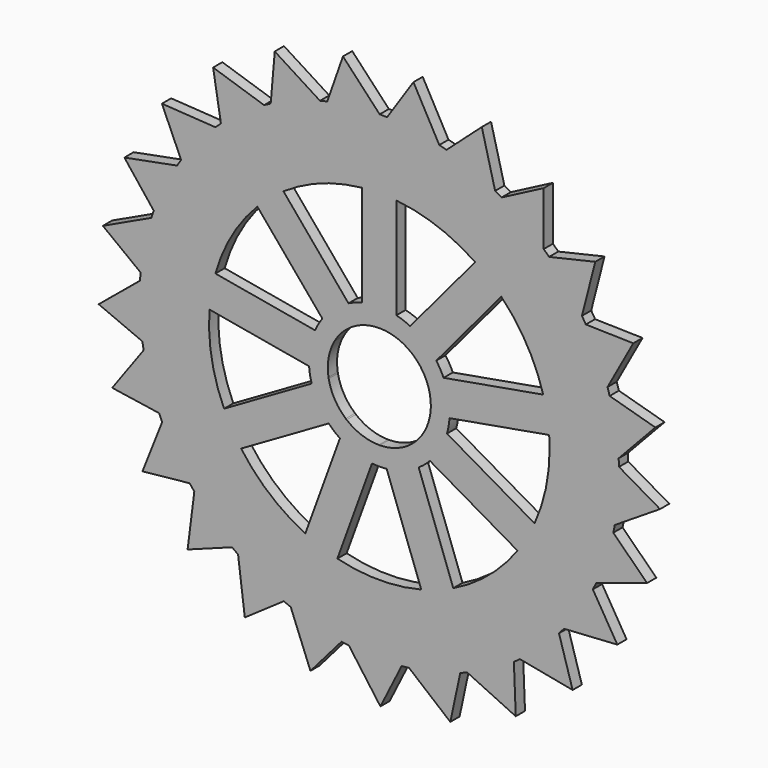
from build123d import *

# Parameters (mm, degrees)
F1_DEPTH = 3.175


with BuildPart() as f1:
    # F0 (on Front) → F1 (new body)
    with BuildSketch(Plane.XZ):
        with BuildLine():
            ThreePointArc((64.6603472432, -12.4325370161), (65.5479656238, -6.2444122905), (65.8447301025, 0))
            ThreePointArc((65.8447301025, 0), (65.837163964, 0.9981600324), (65.8144672873, 1.9960906701))
            ThreePointArc((65.8144672873, 1.9960906701), (65.7755458525, 3.0176232498), (65.7207697602, 4.0384284561))
            ThreePointArc((65.7207697602, 4.0384284561), (64.8786775477, 11.2376902403), (63.2503772096, 18.3007722547))
            ThreePointArc((63.2503772096, 18.3007722547), (62.9586337413, 19.2805321427), (62.6517146091, 20.255644616))
            ThreePointArc((62.6517146091, 20.255644616), (60.0456946711, 27.0193085355), (56.7120333132, 33.4555490129))
            ThreePointArc((56.7120333132, 33.4555490129), (56.1857991264, 34.3319742921), (55.6460218122, 35.2001241297))
            ThreePointArc((55.6460218122, 35.2001241297), (51.4398199657, 41.1032043053), (46.6102637915, 46.5081905857))
            ThreePointArc((46.6102637915, 46.5081905857), (45.8826041155, 47.2262122327), (45.1438848131, 47.9328503873))
            ThreePointArc((45.1438848131, 47.9328503873), (39.6017921895, 52.6044345816), (33.5797999752, 56.6385514989))
            ThreePointArc((33.5797999752, 56.6385514989), (32.6964363437, 57.1530535728), (31.8051915036, 57.6537793704))
            ThreePointArc((31.8051915036, 57.6537793704), (25.2754381648, 60.8003347676), (18.4393938286, 63.2101039194))
            ThreePointArc((18.4393938286, 63.2101039194), (17.4558312273, 63.4887583627), (16.4680610406, 63.7521093599))
            ThreePointArc((16.4680610406, 63.7521093599), (9.3609354036, 65.1759263121), (2.1403727524, 65.8099330402))
            ThreePointArc((2.1403727524, 65.8099330402), (1.1184120368, 65.8352309693), (0.0961817371, 65.8446598544))
            ThreePointArc((0.0961817371, 65.8446598544), (-7.141749356, 65.4562747061), (-14.2931358156, 64.274682036))
            ThreePointArc((-14.2931358156, 64.274682036), (-15.2892810952, 64.0450338891), (-16.2817410186, 63.7999482106))
            ThreePointArc((-16.2817410186, 63.7999482106), (-23.1956917382, 61.6237646291), (-29.8285540938, 58.7008163737))
            ThreePointArc((-29.8285540938, 58.7008163737), (-30.736292466, 58.2306517885), (-31.6366221061, 57.7464511809))
            ThreePointArc((-31.6366221061, 57.7464511809), (-37.7921635006, 53.919206784), (-43.4897346165, 49.4385625322))
            ThreePointArc((-43.4897346165, 49.4385625322), (-44.2520295409, 48.7574236787), (-45.0036578753, 48.0645322469))
            ThreePointArc((-45.0036578753, 48.0645322469), (-50.0140146404, 42.8267068757), (-54.4182951693, 37.0699019845))
            ThreePointArc((-54.4182951693, 37.0699019845), (-54.9872488522, 36.2205873219), (-55.5429483083, 35.3625419828))
            ThreePointArc((-55.5429483083, 35.3625419828), (-59.0933013017, 29.0432474688), (-61.9275541, 22.3720031615))
            ThreePointArc((-61.9275541, 22.3720031615), (-62.2674170891, 21.4078782536), (-62.5922710265, 20.4385931517))
            ThreePointArc((-62.5922710265, 20.4385931517), (-64.4595385123, 13.4348940099), (-65.545677053, 6.2683891014))
            ThreePointArc((-65.545677053, 6.2683891014), (-65.6350945068, 5.250033462), (-65.7086911577, 4.2304123449))
            ThreePointArc((-65.7086911577, 4.2304123449), (-65.7755458525, -3.0176232498), (-65.0453240567, -10.2290908994))
            ThreePointArc((-65.0453240567, -10.2290908994), (-64.8786775477, -11.2376902403), (-64.6963925639, -12.2435808279))
            ThreePointArc((-64.6963925639, -12.2435808279), (-62.9586337413, -19.2805321427), (-60.4579341299, -26.0838394991))
            ThreePointArc((-60.4579341299, -26.0838394991), (-60.0456946711, -27.0193085355), (-59.6189816886, -27.9482647885))
            ThreePointArc((-59.6189816886, -27.9482647885), (-56.1857991264, -34.3319742921), (-52.071749853, -40.2996445334))
            ThreePointArc((-52.071749853, -40.2996445334), (-51.4398199657, -41.1032043053), (-50.7954909305, -41.8968564859))
            ThreePointArc((-50.7954909305, -41.8968564859), (-45.8826041155, -47.2262122327), (-40.4137060263, -51.9832746899))
            ThreePointArc((-40.4137060263, -51.9832746899), (-39.6017921895, -52.6044345816), (-38.7803326645, -53.2129146044))
            ThreePointArc((-38.7803326645, -53.2129146044), (-32.6964363437, -57.1530535728), (-26.2163204188, -60.4006045166))
            ThreePointArc((-26.2163204188, -60.4006045166), (-25.2754381648, -60.8003347676), (-24.3284634731, -61.185409595))
            ThreePointArc((-24.3284634731, -61.185409595), (-17.4558312273, -63.4887583627), (-10.3716669825, -65.0227422236))
            ThreePointArc((-10.3716669825, -65.0227422236), (-9.3609354036, -65.1759263121), (-8.3479474479, -65.3134002765))
            ThreePointArc((-8.3479474479, -65.3134002765), (-1.1184120368, -65.8352309693), (6.1246764347, -65.5592618998))
            ThreePointArc((6.1246764347, -65.5592618998), (7.141749356, -65.4562747061), (8.1571008171, -65.3375098127))
            ThreePointArc((8.1571008171, -65.3375098127), (15.2892810952, -64.0450338891), (22.2361839064, -61.9764520407))
            ThreePointArc((22.2361839064, -61.9764520407), (23.1956917382, -61.6237646291), (24.1496084381, -61.2562233129))
            ThreePointArc((24.1496084381, -61.2562233129), (30.736292466, -58.2306517885), (36.9505101644, -54.4994337664))
            ThreePointArc((36.9505101644, -54.4994337664), (37.7921635006, -53.919206784), (38.6247073448, -53.3259830177))
            ThreePointArc((38.6247073448, -53.3259830177), (44.2520295409, -48.7574236787), (49.3430999743, -43.5980156337))
            ThreePointArc((49.3430999743, -43.5980156337), (50.0140146404, -42.8267068757), (50.6728738373, -42.0450750902))
            ThreePointArc((50.6728738373, -42.0450750902), (54.9872488522, -36.2205873219), (58.6352813415, -29.9571738365))
            ThreePointArc((58.6352813415, -29.9571738365), (59.0933013017, -29.0432474688), (59.5370773048, -28.1223204638))
            ThreePointArc((59.5370773048, -28.1223204638), (62.2674170891, -21.4078782536), (64.2431923366, -14.4340126323))
            ThreePointArc((64.2431923366, -14.4340126323), (64.4595385123, -13.4348940099), (64.6603472432, -12.4325370161))
        make_face()
        with BuildLine():
            ThreePointArc((33.4947075275, 32.6294712325), (40.4961403212, 23.3803431189), (45.0053585452, 12.6923412928))
            ThreePointArc((45.0053585452, 12.6923412928), (46.0504725347, 8.1198401835), (46.6322543943, 3.4656421308))
            ThreePointArc((46.6322543943, 3.4656421308), (46.7286959128, 1.7340137127), (46.7608578329, 0))
            ThreePointArc((46.7608578329, 0), (45.7176528922, -9.8221198984), (42.634584545, -19.2059893249))
            ThreePointArc((42.634584545, -19.2059893249), (40.4960412508, -23.3805147139), (37.9500511701, -27.3197994402))
            ThreePointArc((37.9500511701, -27.3197994402), (30.0572241409, -35.8209589796), (20.3146146056, -42.1176240866))
            ThreePointArc((20.3146146056, -42.1176240866), (15.9930622022, -43.9408669312), (11.5105972357, -45.3220032274))
            ThreePointArc((11.5105972357, -45.3220032274), (-9.90704e-05, -46.7608578328), (-11.5107892796, -45.3219544529))
            ThreePointArc((-11.5107892796, -45.3219544529), (-15.9932483938, -43.940799163), (-20.3147930714, -42.1175380066))
            ThreePointArc((-20.3147930714, -42.1175380066), (-30.0573759256, -35.8208316171), (-37.9501669326, -27.3196386333))
            ThreePointArc((-37.9501669326, -27.3196386333), (-40.4961403212, -23.3803431189), (-42.6346659266, -19.2058086681))
            ThreePointArc((-42.6346659266, -19.2058086681), (-46.0504725347, -8.1198401835), (-46.6322397088, 3.4658397267))
            ThreePointArc((-46.6322397088, 3.4658397267), (-46.0504381279, 8.1200353142), (-45.0053047632, 12.6925319949))
            ThreePointArc((-45.0053047632, 12.6925319949), (-40.4960412508, 23.3805147139), (-33.4945692656, 32.6296131602))
            ThreePointArc((-33.4945692656, 32.6296131602), (-30.0572241409, 35.8209589796), (-26.3174613229, 38.6518958758))
            ThreePointArc((-26.3174613229, 38.6518958758), (-15.9930622022, 43.9408669312), (-4.6844176124, 46.5256279582))
            ThreePointArc((-4.6844176124, 46.5256279582), (9.90704e-05, 46.7608578328), (4.6846147565, 46.5256081084))
            ThreePointArc((4.6846147565, 46.5256081084), (15.9932483938, 43.940799163), (26.3176251032, 38.6517843598))
            ThreePointArc((26.3176251032, 38.6517843598), (30.0573759256, 35.8208316171), (33.4947075275, 32.6294712325))
        make_face(mode=Mode.SUBTRACT)
        with BuildLine():
            ThreePointArc((4.9899170114, 13.2344116196), (9.0915813286, 10.8347621868), (12.1669677135, 7.2120606873))
            Line((12.1669677135, 7.2120606873), (15.6419702322, 11.3534074231))
            ThreePointArc((15.6419702322, 11.3534074231), (12.4238685842, 14.8060319554), (8.464906706, 17.3757430724))
            Line((8.464906706, 17.3757430724), (4.9899170114, 13.2344116196))
        make_face()
        with BuildLine():
            ThreePointArc((8.464906706, 17.3757430724), (12.4238685842, 14.8060319554), (15.6419702322, 11.3534074231))
            Line((15.6419702322, 11.3534074231), (33.4947075275, 32.6294712325))
            ThreePointArc((33.4947075275, 32.6294712325), (30.0573759256, 35.8208316171), (26.3176251032, 38.6517843598))
            Line((26.3176251032, 38.6517843598), (8.464906706, 17.3757430724))
        make_face()
        with BuildLine():
            ThreePointArc((-4.6844176124, 13.3456043075), (0.0001044684, 14.1438651962), (4.6846147565, 13.3455351066))
            Line((4.6846147565, 13.3455351066), (4.6846147565, 18.7516793233))
            ThreePointArc((4.6846147565, 18.7516793233), (0.0001016014, 19.3279872943), (-4.6844176124, 18.7517285735))
            Line((-4.6844176124, 18.7517285735), (-4.6844176124, 13.3456043075))
        make_face()
        with BuildLine():
            ThreePointArc((-4.6844176124, 18.7517285735), (0.0001016014, 19.3279872943), (4.6846147565, 18.7516793233))
            Line((4.6846147565, 18.7516793233), (4.6846147565, 46.5256081084))
            ThreePointArc((4.6846147565, 46.5256081084), (9.90704e-05, 46.7608578328), (-4.6844176124, 46.5256279582))
            Line((-4.6844176124, 46.5256279582), (-4.6844176124, 18.7517285735))
        make_face()
        with BuildLine():
            ThreePointArc((12.3294140088, 6.9306906509), (13.6827353331, 3.5821329544), (14.1438651966, 0))
            ThreePointArc((14.1438651966, 0), (14.0968861909, -1.1518343711), (13.9562612566, -2.2960170808))
            Line((13.9562612566, -2.2960170808), (19.2802739951, -1.3572499894))
            ThreePointArc((19.2802739951, -1.3572499894), (19.3160552866, -0.6790441982), (19.3279872946, 0))
            ThreePointArc((19.3279872946, 0), (18.9047073634, 4.022826415), (17.6534070997, 7.8694542779))
            Line((17.6534070997, 7.8694542779), (12.3294140088, 6.9306906509))
        make_face()
        with BuildLine():
            Line((45.0053585452, 12.6923412928), (17.6534070997, 7.8694542779))
            ThreePointArc((17.6534070997, 7.8694542779), (18.9047073634, 4.022826415), (19.3279872946, 0))
            ThreePointArc((19.3279872946, 0), (19.3160552866, -0.6790441982), (19.2802739951, -1.3572499894))
            Line((19.2802739951, -1.3572499894), (46.6322543943, 3.4656421308))
            ThreePointArc((46.6322543943, 3.4656421308), (46.0504725347, 8.1198401835), (45.0053585452, 12.6923412928))
        make_face()
        with BuildLine():
            Line((18.5816821157, -5.3190396325), (13.8998411653, -2.6159774995))
            ThreePointArc((13.8998411653, -2.6159774995), (12.2488943334, -7.0720230703), (9.2152650512, -10.7297629394))
            Line((9.2152650512, -10.7297629394), (13.8971232794, -13.4328350477))
            ThreePointArc((13.8971232794, -13.4328350477), (16.7384772002, -9.6640816366), (18.5816821157, -5.3190396325))
        make_face()
        with BuildLine():
            Line((42.634584545, -19.2059893249), (18.5816821157, -5.3190396325))
            ThreePointArc((18.5816821157, -5.3190396325), (16.7384772002, -9.6640816366), (13.8971232794, -13.4328350477))
            Line((13.8971232794, -13.4328350477), (37.9500511701, -27.3197994402))
            ThreePointArc((37.9500511701, -27.3197994402), (40.4960412508, -23.3805147139), (42.634584545, -19.2059893249))
        make_face()
        with BuildLine():
            Line((10.8153815573, -16.0186957843), (8.966378161, -10.9386007045))
            ThreePointArc((8.966378161, -10.9386007045), (4.8373886334, -13.2909214845), (0.1623439121, -14.1429334706))
            Line((0.1623439121, -14.1429334706), (2.0113541319, -19.2230472979))
            ThreePointArc((2.0113541319, -19.2230472979), (6.6104655105, -18.1624017848), (10.8153815573, -16.0186957843))
        make_face()
        with BuildLine():
            Line((20.3146146056, -42.1176240866), (10.8153815573, -16.0186957843))
            ThreePointArc((10.8153815573, -16.0186957843), (6.6104655105, -18.1624017848), (2.0113541319, -19.2230472979))
            Line((2.0113541319, -19.2230472979), (11.5105972357, -45.3220032274))
            ThreePointArc((11.5105972357, -45.3220032274), (15.9930622022, -43.9408669312), (20.3146146056, -42.1176240866))
        make_face()
        with BuildLine():
            Line((-2.0115562313, -19.2230261506), (-0.162552835, -14.1429310708))
            ThreePointArc((-0.162552835, -14.1429310708), (-4.8375849697, -13.290850024), (-8.9665397478, -10.9384682497))
            Line((-8.9665397478, -10.9384682497), (-10.8155499676, -16.018582077))
            ThreePointArc((-10.8155499676, -16.018582077), (-6.6106564587, -18.1623322854), (-2.0115562313, -19.2230261506))
        make_face()
        with BuildLine():
            Line((-11.5107892796, -45.3219544529), (-2.0115562313, -19.2230261506))
            ThreePointArc((-2.0115562313, -19.2230261506), (-6.6106564587, -18.1623322854), (-10.8155499676, -16.018582077))
            Line((-10.8155499676, -16.018582077), (-20.3147930714, -42.1175380066))
            ThreePointArc((-20.3147930714, -42.1175380066), (-15.9932483938, -43.940799163), (-11.5107892796, -45.3219544529))
        make_face()
        with BuildLine():
            Line((-13.8972645033, -13.432688941), (-9.2154235529, -10.729626808))
            ThreePointArc((-9.2154235529, -10.729626808), (-12.2489988018, -7.0718421258), (-13.8998798077, -2.6157721673))
            Line((-13.8998798077, -2.6157721673), (-18.5817380358, -5.3188442756))
            ThreePointArc((-18.5817380358, -5.3188442756), (-16.7385788016, -9.6639056578), (-13.8972645033, -13.432688941))
        make_face()
        with BuildLine():
            Line((-37.9501669326, -27.3196386333), (-13.8972645033, -13.432688941))
            ThreePointArc((-13.8972645033, -13.432688941), (-16.7385788016, -9.6639056578), (-18.5817380358, -5.3188442756))
            Line((-18.5817380358, -5.3188442756), (-42.6346659266, -19.2058086681))
            ThreePointArc((-42.6346659266, -19.2058086681), (-40.4961403212, -23.3803431189), (-37.9501669326, -27.3196386333))
        make_face()
        with BuildLine():
            ThreePointArc((-13.9562951724, -2.2958109151), (-13.928969962, 2.4561592977), (-12.3293116256, 6.9308727833))
            Line((-12.3293116256, 6.9308727833), (-17.653324364, 7.8696398747))
            ThreePointArc((-17.653324364, 7.8696398747), (-19.0343340947, 3.3563698295), (-19.2802882633, -1.3570472881))
            Line((-19.2802882633, -1.3570472881), (-13.9562951724, -2.2958109151))
        make_face()
        with BuildLine():
            ThreePointArc((-19.2802882633, -1.3570472881), (-19.0343340947, 3.3563698295), (-17.653324364, 7.8696398747))
            Line((-17.653324364, 7.8696398747), (-45.0053047632, 12.6925319949))
            ThreePointArc((-45.0053047632, 12.6925319949), (-46.0504381279, 8.1200353142), (-46.6322397088, 3.4658397267))
            Line((-46.6322397088, 3.4658397267), (-19.2802882633, -1.3570472881))
        make_face()
        with BuildLine():
            ThreePointArc((-12.1668611738, 7.21224042), (-9.0914212738, 10.8348964887), (-4.9897215088, 13.2344853305))
            Line((-4.9897215088, 13.2344853305), (-8.4647240275, 17.3758320664))
            ThreePointArc((-8.4647240275, 17.3758320664), (-12.4237129218, 14.8061625716), (-15.6418508684, 11.3535718728))
            Line((-15.6418508684, 11.3535718728), (-12.1668611738, 7.21224042))
        make_face()
        with BuildLine():
            ThreePointArc((-15.6418508684, 11.3535718728), (-12.4237129218, 14.8061625716), (-8.4647240275, 17.3758320664))
            Line((-8.4647240275, 17.3758320664), (-26.3174613229, 38.6518958758))
            ThreePointArc((-26.3174613229, 38.6518958758), (-30.0572241409, 35.8209589796), (-33.4945692656, 32.6296131602))
            Line((-33.4945692656, 32.6296131602), (-15.6418508684, 11.3535718728))
        make_face()
        with BuildLine():
            ThreePointArc((65.8144672873, 1.9960906701), (65.837163964, 0.9981600324), (65.8447301025, 0))
            ThreePointArc((65.8447301025, 0), (65.5479656238, -6.2444122905), (64.6603472432, -12.4325370161))
            Line((64.6603472432, -12.4325370161), (77.087757891, -4.5458624005))
            Line((77.087757891, -4.5458624005), (65.8144672873, 1.9960906701))
        make_face()
        with BuildLine():
            ThreePointArc((63.2503772096, 18.3007722547), (64.8786775477, 11.2376902403), (65.7207697602, 4.0384284561))
            Line((65.7207697602, 4.0384284561), (75.7964142298, 14.7679000378))
            Line((75.7964142298, 14.7679000378), (63.2503772096, 18.3007722547))
        make_face()
        with BuildLine():
            ThreePointArc((56.7120333132, 33.4555490129), (60.0456946711, 27.0193085355), (62.6517146091, 20.255644616))
            Line((62.6517146091, 20.255644616), (69.7425031029, 33.1537410041))
            Line((69.7425031029, 33.1537410041), (56.7120333132, 33.4555490129))
        make_face()
        with BuildLine():
            ThreePointArc((46.6102637915, 46.5081905857), (51.4398199657, 41.1032043053), (55.6460218122, 35.2001241297))
            Line((55.6460218122, 35.2001241297), (59.306414011, 49.4564104923))
            Line((59.306414011, 49.4564104923), (46.6102637915, 46.5081905857))
        make_face()
        with BuildLine():
            ThreePointArc((33.5797999752, 56.6385514989), (39.6017921895, 52.6044345816), (45.1438848131, 47.9328503873))
            Line((45.1438848131, 47.9328503873), (45.1438848131, 62.6515518212))
            Line((45.1438848131, 62.6515518212), (33.5797999752, 56.6385514989))
        make_face()
        with BuildLine():
            ThreePointArc((18.4393938286, 63.2101039194), (25.2754381648, 60.8003347676), (31.8051915036, 57.6537793704))
            Line((31.8051915036, 57.6537793704), (28.1447993047, 71.910065733))
            Line((28.1447993047, 71.910065733), (18.4393938286, 63.2101039194))
        make_face()
        with BuildLine():
            ThreePointArc((2.1403727524, 65.8099330402), (9.3609354036, 65.1759263121), (16.4680610406, 63.7521093599))
            Line((16.4680610406, 63.7521093599), (9.3772725468, 76.650205748))
            Line((9.3772725468, 76.650205748), (2.1403727524, 65.8099330402))
        make_face()
        with BuildLine():
            ThreePointArc((-14.2931358156, 64.274682036), (-7.141749356, 65.4562747061), (0.0961817371, 65.8446598544))
            Line((0.0961817371, 65.8446598544), (-9.9794627325, 76.5741314361))
            Line((-9.9794627325, 76.5741314361), (-14.2931358156, 64.274682036))
        make_face()
        with BuildLine():
            ThreePointArc((-29.8285540938, 58.7008163737), (-23.1956917382, 61.6237646291), (-16.2817410186, 63.7999482106))
            Line((-16.2817410186, 63.7999482106), (-28.7091516664, 71.6866228262))
            Line((-28.7091516664, 71.6866228262), (-29.8285540938, 58.7008163737))
        make_face()
        with BuildLine():
            ThreePointArc((-43.4897346165, 49.4385625322), (-37.7921635006, 53.919206784), (-31.6366221061, 57.7464511809))
            Line((-31.6366221061, 57.7464511809), (-45.6349390163, 62.2947800591))
            Line((-45.6349390163, 62.2947800591), (-43.4897346165, 49.4385625322))
        make_face()
        with BuildLine():
            ThreePointArc((-54.4182951693, 37.0699019845), (-50.0140146404, 42.8267068757), (-45.0036578753, 48.0645322469))
            Line((-45.0036578753, 48.0645322469), (-59.6933153141, 48.9887271567))
            Line((-59.6933153141, 48.9887271567), (-54.4182951693, 37.0699019845))
        make_face()
        with BuildLine():
            ThreePointArc((-61.9275541, 22.3720031615), (-59.0933013017, 29.0432474688), (-55.5429483083, 35.3625419828))
            Line((-55.5429483083, 35.3625419828), (-70.0009410742, 32.6045323591))
            Line((-70.0009410742, 32.6045323591), (-61.9275541, 22.3720031615))
        make_face()
        with BuildLine():
            ThreePointArc((-65.545677053, 6.2683891014), (-64.4595385123, 13.4348940099), (-62.5922710265, 20.4385931517))
            Line((-62.5922710265, 20.4385931517), (-75.910150261, 14.1716748824))
            Line((-75.910150261, 14.1716748824), (-65.545677053, 6.2683891014))
        make_face()
        with BuildLine():
            Line((-77.049645529, -5.151641047), (-65.0453240567, -10.2290908994))
            ThreePointArc((-65.0453240567, -10.2290908994), (-65.7755458525, -3.0176232498), (-65.7086911577, 4.2304123449))
            Line((-65.7086911577, 4.2304123449), (-77.049645529, -5.151641047))
        make_face()
        with BuildLine():
            Line((-65.03729707, -41.6333672845), (-52.071749853, -40.2996445334))
            ThreePointArc((-52.071749853, -40.2996445334), (-56.1857991264, -34.3319742921), (-59.6189816886, -27.9482647885))
            Line((-59.6189816886, -27.9482647885), (-65.03729707, -41.6333672845))
        make_face()
        with BuildLine():
            Line((-52.6402333751, -56.4994965627), (-40.4137060263, -51.9832746899))
            ThreePointArc((-40.4137060263, -51.9832746899), (-45.8826041155, -47.2262122327), (-50.7954909305, -41.8968564859))
            Line((-50.7954909305, -41.8968564859), (-52.6402333751, -56.4994965627))
        make_face()
        with BuildLine():
            Line((-36.9355902199, -67.8155546813), (-26.2163204188, -60.4006045166))
            ThreePointArc((-26.2163204188, -60.4006045166), (-32.6964363437, -57.1530535728), (-38.7803326645, -53.2129146044))
            Line((-38.7803326645, -53.2129146044), (-36.9355902199, -67.8155546813))
        make_face()
        with BuildLine():
            Line((-18.9101480916, -74.8705120911), (-10.3716669825, -65.0227422236))
            ThreePointArc((-10.3716669825, -65.0227422236), (-17.4558312273, -63.4887583627), (-24.3284634731, -61.185409595))
            Line((-24.3284634731, -61.185409595), (-18.9101480916, -74.8705120911))
        make_face()
        with BuildLine():
            Line((0.3034881879, -77.2210798717), (6.1246764347, -65.5592618998))
            ThreePointArc((6.1246764347, -65.5592618998), (-1.1184120368, -65.8352309693), (-8.3479474479, -65.3134002765))
            Line((-8.3479474479, -65.3134002765), (0.3034881879, -77.2210798717))
        make_face()
        with BuildLine():
            Line((19.4980551884, -74.7195632047), (22.2361839064, -61.9764520407))
            ThreePointArc((22.2361839064, -61.9764520407), (15.2892810952, -64.0450338891), (8.1571008171, -65.3375098127))
            Line((8.1571008171, -65.3375098127), (19.4980551884, -74.7195632047))
        make_face()
        with BuildLine():
            Line((37.4674876726, -67.5231415822), (36.9505101644, -54.4994337664))
            ThreePointArc((36.9505101644, -54.4994337664), (30.736292466, -58.2306517885), (24.1496084381, -61.2562233129))
            Line((24.1496084381, -61.2562233129), (37.4674876726, -67.5231415822))
        make_face()
        with BuildLine():
            Line((53.0827001106, -56.0839926413), (49.3430999743, -43.5980156337))
            ThreePointArc((49.3430999743, -43.5980156337), (44.2520295409, -48.7574236787), (38.6247073448, -53.3259830177))
            Line((38.6247073448, -53.3259830177), (53.0827001106, -56.0839926413))
        make_face()
        with BuildLine():
            Line((65.3625312761, -41.1208801804), (58.6352813415, -29.9571738365))
            ThreePointArc((58.6352813415, -29.9571738365), (54.9872488522, -36.2205873219), (50.6728738373, -42.0450750902))
            Line((50.6728738373, -42.0450750902), (65.3625312761, -41.1208801804))
        make_face()
        with BuildLine():
            Line((73.5353942149, -23.5739915856), (64.2431923366, -14.4340126323))
            ThreePointArc((64.2431923366, -14.4340126323), (62.2674170891, -21.4078782536), (59.5370773048, -28.1223204638))
            Line((59.5370773048, -28.1223204638), (73.5353942149, -23.5739915856))
        make_face()
        with BuildLine():
            Line((-73.3478281996, -24.151260423), (-60.4579341299, -26.0838394991))
            ThreePointArc((-60.4579341299, -26.0838394991), (-62.9586337413, -19.2805321427), (-64.6963925639, -12.2435808279))
            Line((-64.6963925639, -12.2435808279), (-73.3478281996, -24.151260423))
        make_face()
        with BuildLine():
            ThreePointArc((-13.8998798077, -2.6157721673), (-13.9290062435, -2.4559535352), (-13.9562951724, -2.2958109151))
            Line((-13.9562951724, -2.2958109151), (-19.2802882633, -1.3570472881))
            ThreePointArc((-19.2802882633, -1.3570472881), (-19.0343693805, -3.3561697138), (-18.5817380358, -5.3188442756))
            Line((-18.5817380358, -5.3188442756), (-13.8998798077, -2.6157721673))
        make_face()
        with BuildLine():
            ThreePointArc((-12.3293116256, 6.9308727833), (-12.2488943334, 7.0720230703), (-12.1668611738, 7.21224042))
            Line((-12.1668611738, 7.21224042), (-15.6418508684, 11.3535718728))
            ThreePointArc((-15.6418508684, 11.3535718728), (-16.7384772002, 9.6640816366), (-17.653324364, 7.8696398747))
            Line((-17.653324364, 7.8696398747), (-12.3293116256, 6.9308727833))
        make_face()
        with BuildLine():
            ThreePointArc((-4.9897215088, 13.2344853305), (-4.8373886334, 13.2909214845), (-4.6844176124, 13.3456043075))
            Line((-4.6844176124, 13.3456043075), (-4.6844176124, 18.7517285735))
            ThreePointArc((-4.6844176124, 18.7517285735), (-6.6104655105, 18.1624017848), (-8.4647240275, 17.3758320664))
            Line((-8.4647240275, 17.3758320664), (-4.9897215088, 13.2344853305))
        make_face()
        with BuildLine():
            ThreePointArc((4.6846147565, 13.3455351066), (4.8375849697, 13.290850024), (4.9899170114, 13.2344116196))
            Line((4.9899170114, 13.2344116196), (8.464906706, 17.3757430724))
            ThreePointArc((8.464906706, 17.3757430724), (6.6106564587, 18.1623322854), (4.6846147565, 18.7516793233))
            Line((4.6846147565, 18.7516793233), (4.6846147565, 13.3455351066))
        make_face()
        with BuildLine():
            ThreePointArc((12.1669677135, 7.2120606873), (12.2489988018, 7.0718421258), (12.3294140088, 6.9306906509))
            Line((12.3294140088, 6.9306906509), (17.6534070997, 7.8694542779))
            ThreePointArc((17.6534070997, 7.8694542779), (16.7385788016, 9.6639056578), (15.6419702322, 11.3534074231))
            Line((15.6419702322, 11.3534074231), (12.1669677135, 7.2120606873))
        make_face()
        with BuildLine():
            Line((19.2802739951, -1.3572499894), (13.9562612566, -2.2960170808))
            ThreePointArc((13.9562612566, -2.2960170808), (13.928969962, -2.4561592977), (13.8998411653, -2.6159774995))
            Line((13.8998411653, -2.6159774995), (18.5816821157, -5.3190396325))
            ThreePointArc((18.5816821157, -5.3190396325), (19.0343340947, -3.3563698295), (19.2802739951, -1.3572499894))
        make_face()
        with BuildLine():
            Line((13.8971232794, -13.4328350477), (9.2152650512, -10.7297629394))
            ThreePointArc((9.2152650512, -10.7297629394), (9.0914212738, -10.8348964887), (8.966378161, -10.9386007045))
            Line((8.966378161, -10.9386007045), (10.8153815573, -16.0186957843))
            ThreePointArc((10.8153815573, -16.0186957843), (12.4237129218, -14.8061625716), (13.8971232794, -13.4328350477))
        make_face()
        with BuildLine():
            Line((2.0113541319, -19.2230472979), (0.1623439121, -14.1429334706))
            ThreePointArc((0.1623439121, -14.1429334706), (-0.0001044684, -14.1438651962), (-0.162552835, -14.1429310708))
            Line((-0.162552835, -14.1429310708), (-2.0115562313, -19.2230261506))
            ThreePointArc((-2.0115562313, -19.2230261506), (-0.0001016014, -19.3279872943), (2.0113541319, -19.2230472979))
        make_face()
        with BuildLine():
            Line((-10.8155499676, -16.018582077), (-8.9665397478, -10.9384682497))
            ThreePointArc((-8.9665397478, -10.9384682497), (-9.0915813286, -10.8347621868), (-9.2154235529, -10.729626808))
            Line((-9.2154235529, -10.729626808), (-13.8972645033, -13.432688941))
            ThreePointArc((-13.8972645033, -13.432688941), (-12.4238685842, -14.8060319554), (-10.8155499676, -16.018582077))
        make_face()
    extrude(amount=F1_DEPTH)


solid = f1.part
